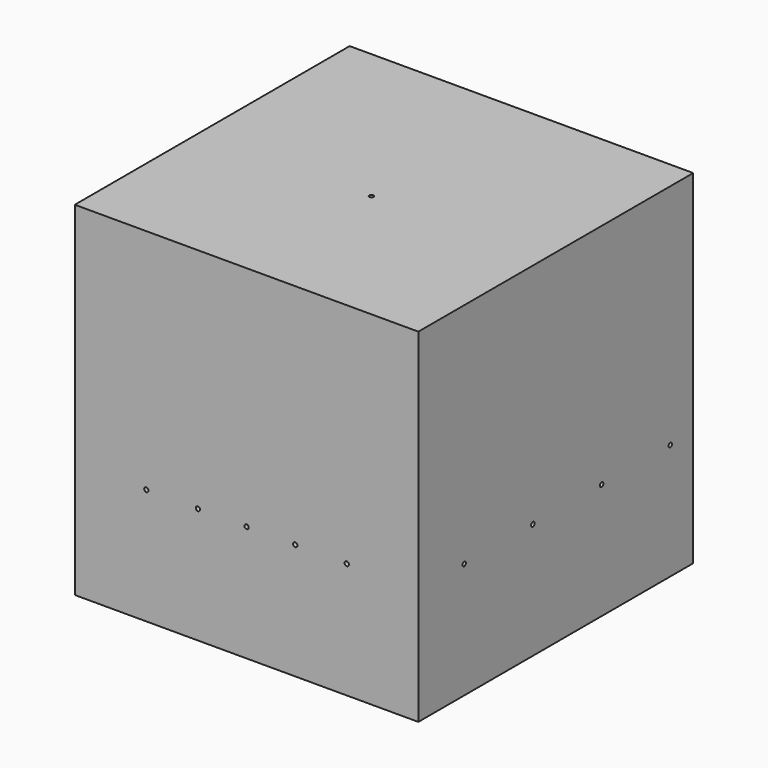
from build123d import *

# Parameters (mm, degrees)
F0_W      = 304.8
F0_H      = 304.8
F1_DEPTH  = 304.8
F2_T      = -12.7
F3_W      = 279.4
F3_H      = 12.7
F4_DEPTH  = 292.1
F5_R      = 1.905
F6_DEPTH  = 12.7
F7_R      = 1.905
F8_DEPTH  = 41.275
F9_R      = 1.905
F10_DEPTH = 41.275
F11_R     = 1.905
F12_DEPTH = 41.275
F13_W     = 12.7
F13_H     = 83.6831671771
F14_DEPTH = 292.1
F15_R     = 1.905
F16_DEPTH = 41.275


with BuildPart() as f1:
    # F0 (on Front) → F1 (new body)
    with BuildSketch(Plane.XZ):
        with Locations((-0.2428255975, 39.7985728923)):
            Rectangle(F0_W, F0_H)
    extrude(amount=F1_DEPTH)

    # F2
    f2_openings = [f1.faces().sort_by_distance(p)[0] for p in [
        (-0.242826, 0, 39.798573),
    ]]
    offset(amount=F2_T, openings=f2_openings)

    # F3 (on face) → F4 (join)
    with BuildSketch(Plane(origin=(0, -292.1, 0), x_dir=(-1, 0, 0), z_dir=(0, 1, 0))):
        with Locations((0.2428255975, -9.8682599306)):
            Rectangle(F3_W, F3_H)
    extrude(amount=F4_DEPTH)

    # F5 (on face) → F6 (cut, symmetric)
    with BuildSketch(Plane.XY.offset(192.1985728923)):
        with Locations((-0.2428255975, -166.3160324097)):
            Circle(F5_R)
    extrude(amount=F6_DEPTH, both=True, mode=Mode.SUBTRACT)

    # F7 (on face) → F8 (cut)
    with BuildSketch(Plane.YZ.offset(152.1571744025)):
        with Locations((-254, -9.8682599306)):
            Circle(F7_R)
        with Locations((-177.8, -9.8682599306)):
            Circle(F7_R)
        with Locations((-101.6, -9.8682599306)):
            Circle(F7_R)
        with Locations((-25.4, -9.8682599306)):
            Circle(F7_R)
    extrude(amount=-F8_DEPTH, mode=Mode.SUBTRACT)

    # F9 (on face) → F10 (cut)
    with BuildSketch(Plane(origin=(-152.6428255975, 0, 0), x_dir=(0, -1, 0), z_dir=(-1, 0, 0))):
        with Locations((25.4, -9.6651343237)):
            Circle(F9_R)
        with Locations((101.6, -9.6651343237)):
            Circle(F9_R)
        with Locations((177.8, -9.6651343237)):
            Circle(F9_R)
        with Locations((254, -9.6629047766)):
            Circle(F9_R)
    extrude(amount=-F10_DEPTH, mode=Mode.SUBTRACT)

    # F11 (on face) → F12 (cut)
    with BuildSketch(Plane.XZ.offset(304.8)):
        with Locations((-89.1428255975, -9.7314271077)):
            Circle(F11_R)
        with Locations((-43.4228255975, -9.7314271077)):
            Circle(F11_R)
        with Locations((-0.2428255975, -9.7314271077)):
            Circle(F11_R)
        with Locations((42.9371744025, -9.7314271077)):
            Circle(F11_R)
        with Locations((88.6571744025, -9.7314271077)):
            Circle(F11_R)
    extrude(amount=-F12_DEPTH, mode=Mode.SUBTRACT)

    # F13 (on face) → F14 (join)
    with BuildSketch(Plane(origin=(0, -292.1, 0), x_dir=(-1, 0, 0), z_dir=(0, 1, 0))):
        with Locations((0.2428255975, -58.0598435192)):
            Rectangle(F13_W, F13_H)
    extrude(amount=F14_DEPTH)

    # F15 (on face) → F16 (cut)
    with BuildSketch(Plane.XY.offset(-3.5182599306)):
        with Locations((-0.2428255975, -31.75)):
            Circle(F15_R)
        with Locations((-0.2428255975, -146.05)):
            Circle(F15_R)
    extrude(amount=-F16_DEPTH, mode=Mode.SUBTRACT)


solid = f1.part
